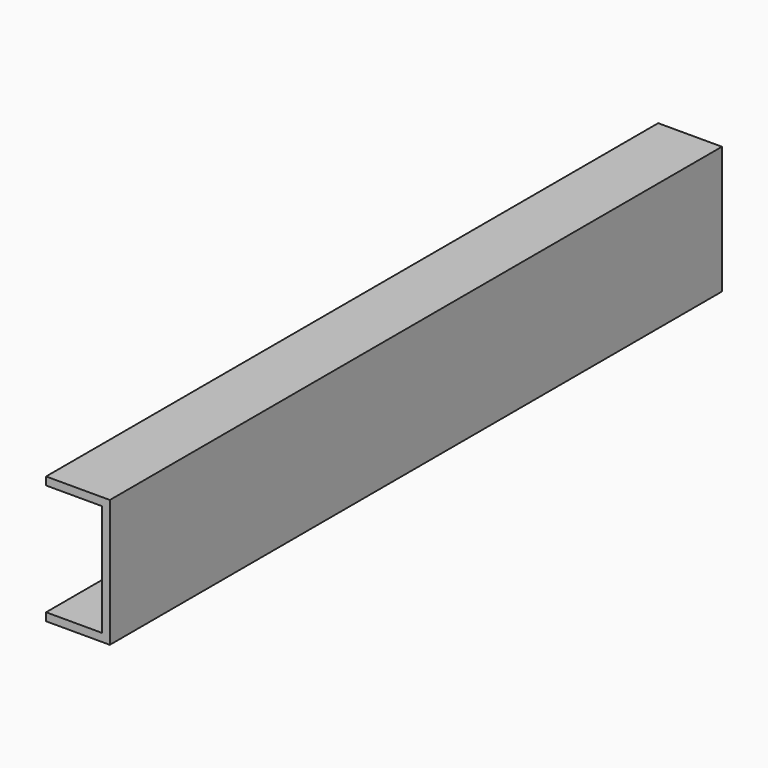
from build123d import *

# Parameters (mm, degrees)
F0_W     = 457.2
F0_H     = 76.2
F1_DEPTH = 38.1
F2_W     = 33.3375
F2_H     = 66.675
F3_DEPTH = 482.6


with BuildPart() as f1:
    # F0 (on Right) → F1 (new body)
    with BuildSketch(Plane.YZ):
        with Locations((70.146956, 3.037153)):
            Rectangle(F0_W, F0_H)
    extrude(amount=-F1_DEPTH)

    # F2 (on face) → F3 (cut)
    with BuildSketch(Plane.XZ.offset(158.453044)):
        with Locations((-21.43125, 3.037153)):
            Rectangle(F2_W, F2_H)
    extrude(amount=-F3_DEPTH, mode=Mode.SUBTRACT)


solid = f1.part
